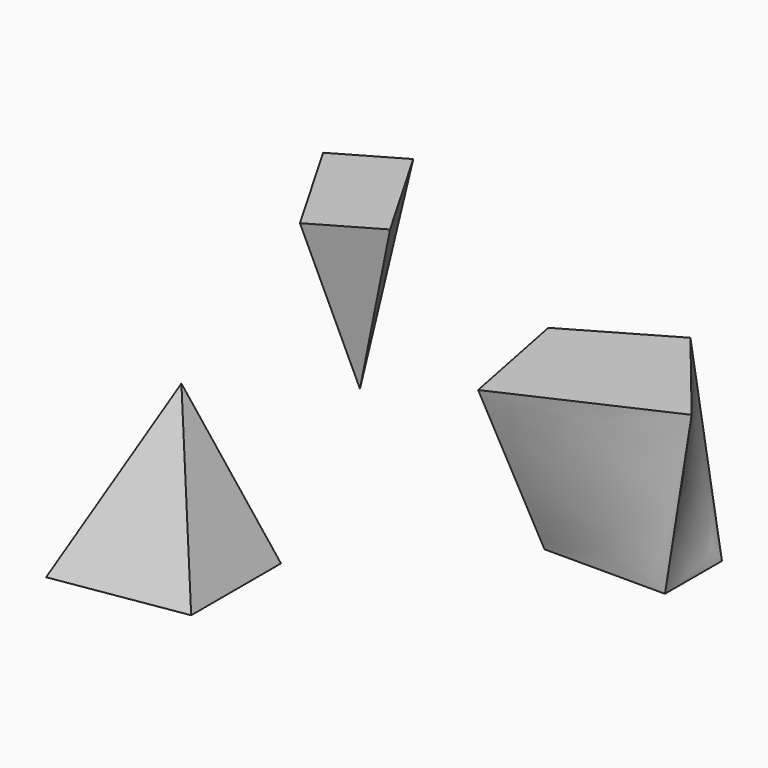
from build123d import *

# Parameters (mm, degrees)
F0_W = 36.537992
F0_H = 21.590633


with BuildPart() as f3:
    # F2 (on offset) → F3 section 0
    with BuildSketch(Plane.XY.offset(50.8)):
        Polygon((13.935128, 28.657244), (20.890336, -6.640986), (68.328768, 14.994361), (43.420492, 45.680626), align=None)
    # F0 (on Top) → F3 section 1
    with BuildSketch(Plane.XY):
        with Locations((41.520446, 26.365479)):
            Rectangle(F0_W, F0_H)
    loft()


with BuildPart() as f4:
    # F0 (on Top) → F4 section 0
    with BuildSketch(Plane.XY, mode=Mode.PRIVATE) as f4_s0:
        Polygon((-20.952431, -29.079724), (-54.999199, -17.453996), (-59.981655, -69.354557), (-20.952431, -63.12649), align=None)
    loft([f4_s0.sketch, Vertex(-36.071093, -47.935609, 50.8)])


with BuildPart() as f5:
    # F2 (on offset) → F5 section 0
    with BuildSketch(Plane.XY.offset(50.8), mode=Mode.PRIVATE) as f5_s0:
        Polygon((-83.801781, 65.461497), (-65.532785, 33.818668), (-46.834748, 44.613985), (-65.103744, 76.256814), align=None)
    loft([f5_s0.sketch, Vertex(-62.280677, 52.52336, 0)])


solid = Compound([f3.part, f4.part, f5.part])
